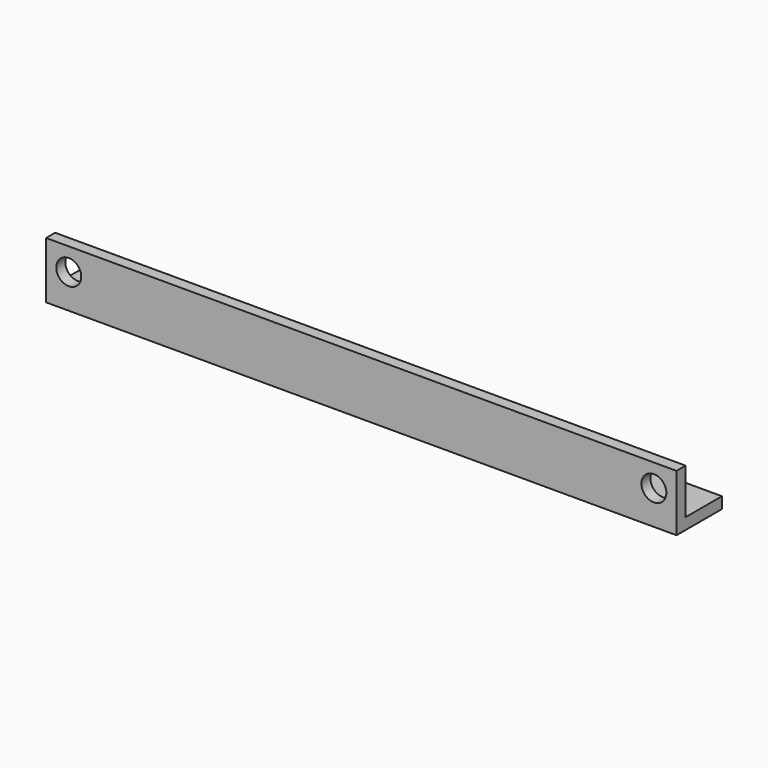
from build123d import *

# Parameters (mm, degrees)
F1_DEPTH = 139
F2_R     = 5.5
F3_DEPTH = 25.001


with BuildPart() as f1:
    # F0 (on Right) → F1 (new body, symmetric)
    with BuildSketch(Plane.YZ):
        Polygon((-20, 25), (-25, 25), (-25, 0), (0, 0), (0, 5), (-20, 5), align=None)
    extrude(amount=F1_DEPTH, both=True)

    # F2 (on face) → F3 (cut, through all)
    with BuildSketch(Plane.XZ.offset(25)):
        with Locations((129, 15)):
            Circle(F2_R)
        with Locations((-129, 15)):
            Circle(F2_R)
    extrude(amount=-F3_DEPTH, mode=Mode.SUBTRACT)


solid = f1.part
